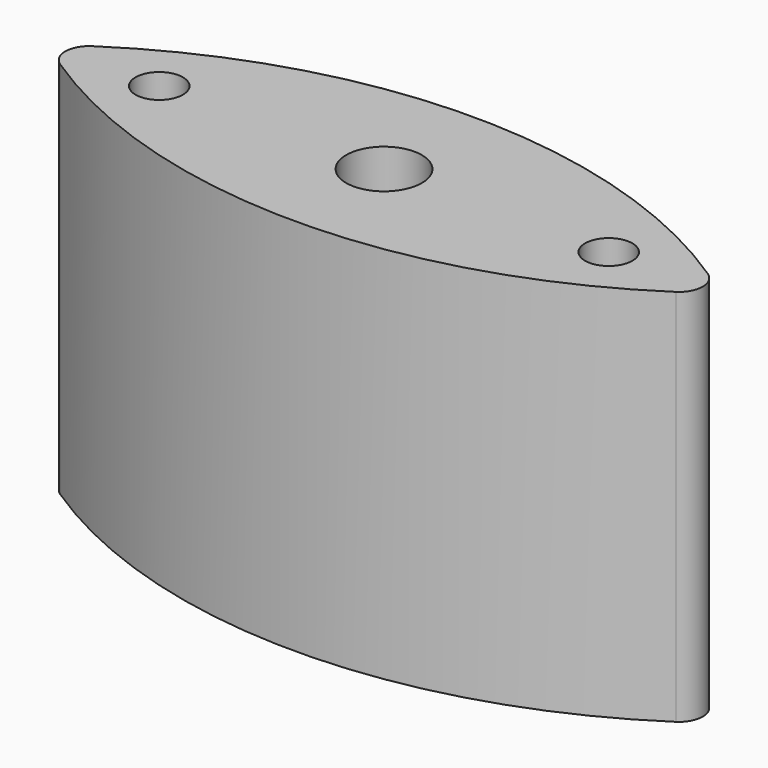
from build123d import *

# Parameters (mm, degrees)
F0_R     = 3.175
F0_R_2   = 5.08
F1_DEPTH = 50.8


with BuildPart() as f1:
    # F0 (on Top) → F1 (new body)
    with BuildSketch(Plane.XY):
        with BuildLine():
            ThreePointArc((41.335932, -53.448181), (42.759429, -50.8), (41.335932, -48.151819))
            ThreePointArc((41.335932, -48.151819), (0, -35.71875), (-41.335932, -48.151819))
            ThreePointArc((-41.335932, -48.151819), (-42.759429, -50.8), (-41.335932, -53.448181))
            ThreePointArc((-41.335932, -53.448181), (0, -65.88125), (41.335932, -53.448181))
        make_face()
        with Locations((-30.1625, -50.8)):
            Circle(F0_R, mode=Mode.SUBTRACT)
        with Locations((0, -50.8)):
            Circle(F0_R_2, mode=Mode.SUBTRACT)
        with Locations((30.1625, -50.8)):
            Circle(F0_R, mode=Mode.SUBTRACT)
    extrude(amount=-F1_DEPTH)


solid = f1.part
